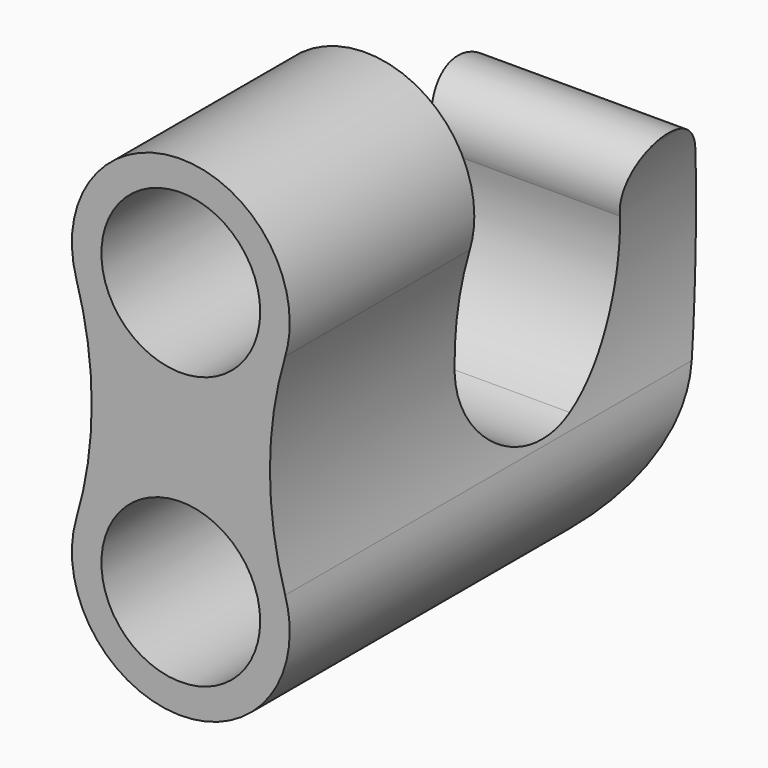
from build123d import *

# Parameters (mm, degrees)
F0_R     = 10.922
F1_DEPTH = 25.4
F2_DEPTH = 6.35
F4_DEPTH = 25.4
F5_DEPTH = 76.2
F6_DEPTH = 25.4
F7_D     = 5.4102
F8_R     = 12.7


with BuildPart() as f1:
    # F0 (on Front) → F1 (new body)
    with BuildSketch(Plane.XZ):
        with BuildLine():
            ThreePointArc((14.3656110791, 14.4652509653), (0, 3.7465), (-14.3656110791, 14.4652509653))
            ThreePointArc((-14.3656110791, 14.4652509653), (-12.2625977878, 0), (-14.3656110791, -14.4652509653))
            ThreePointArc((-14.3656110791, -14.4652509653), (0, -3.7465), (14.3656110791, -14.4652509653))
            ThreePointArc((14.3656110791, -14.4652509653), (12.2625977878, 0), (14.3656110791, 14.4652509653))
        make_face()
        with BuildLine():
            ThreePointArc((14.3656110791, 14.4652509653), (14.8300917669, 16.5764447631), (14.986, 18.7325))
            ThreePointArc((14.986, 18.7325), (-2.1560552369, 33.5625917669), (-14.3656110791, 14.4652509653))
            ThreePointArc((-14.3656110791, 14.4652509653), (0, 3.7465), (14.3656110791, 14.4652509653))
        make_face()
        with Locations((0, 18.7325)):
            Circle(F0_R, mode=Mode.SUBTRACT)
        with BuildLine():
            ThreePointArc((14.3656110791, -14.4652509653), (0, -3.7465), (-14.3656110791, -14.4652509653))
            ThreePointArc((-14.3656110791, -14.4652509653), (-2.1560552369, -33.5625917669), (14.986, -18.7325))
            ThreePointArc((14.986, -18.7325), (14.8300917669, -16.5764447631), (14.3656110791, -14.4652509653))
        make_face()
        with Locations((0, -18.7325)):
            Circle(F0_R, mode=Mode.SUBTRACT)
    extrude(amount=F1_DEPTH)

    # F0 (on Front) → F2 (join)
    with BuildSketch(Plane.XZ):
        with BuildLine():
            ThreePointArc((14.3656110791, 14.4652509653), (14.8300917669, 16.5764447631), (14.986, 18.7325))
            ThreePointArc((14.986, 18.7325), (-2.1560552369, 33.5625917669), (-14.3656110791, 14.4652509653))
            ThreePointArc((-14.3656110791, 14.4652509653), (0, 3.7465), (14.3656110791, 14.4652509653))
        make_face()
        with Locations((0, 18.7325)):
            Circle(F0_R, mode=Mode.SUBTRACT)
        with BuildLine():
            ThreePointArc((14.3656110791, 14.4652509653), (0, 3.7465), (-14.3656110791, 14.4652509653))
            ThreePointArc((-14.3656110791, 14.4652509653), (-12.2625977878, 0), (-14.3656110791, -14.4652509653))
            ThreePointArc((-14.3656110791, -14.4652509653), (0, -3.7465), (14.3656110791, -14.4652509653))
            ThreePointArc((14.3656110791, -14.4652509653), (12.2625977878, 0), (14.3656110791, 14.4652509653))
        make_face()
        with BuildLine():
            ThreePointArc((14.3656110791, -14.4652509653), (0, -3.7465), (-14.3656110791, -14.4652509653))
            ThreePointArc((-14.3656110791, -14.4652509653), (-2.1560552369, -33.5625917669), (14.986, -18.7325))
            ThreePointArc((14.986, -18.7325), (14.8300917669, -16.5764447631), (14.3656110791, -14.4652509653))
        make_face()
        with Locations((0, -18.7325)):
            Circle(F0_R, mode=Mode.SUBTRACT)
        with Locations((0, 18.7325)):
            Circle(F0_R)
        with Locations((0, -18.7325)):
            Circle(F0_R)
    extrude(amount=-F2_DEPTH)

    # F3 (on Right) → F4 (join, symmetric)
    with BuildSketch(Plane.YZ):
        with BuildLine():
            Line((0, 0), (6.35, -33.6685143411))
            ThreePointArc((6.35, -33.6685143411), (38.7816728167, -23.0090487153), (46.444249479, 10.2583907415))
            ThreePointArc((46.444249479, 10.2583907415), (38.5562501556, 14.5507638234), (34.2638770738, 6.6627644999))
            ThreePointArc((34.2638770738, 6.6627644999), (20.4633207868, -13.8005562869), (0, 0))
        make_face()
    extrude(amount=F4_DEPTH, both=True)

    # F0 (on Front) → F5 (intersect)
    with BuildSketch(Plane.XZ):
        with BuildLine():
            ThreePointArc((14.3656110791, 14.4652509653), (14.8300917669, 16.5764447631), (14.986, 18.7325))
            ThreePointArc((14.986, 18.7325), (-2.1560552369, 33.5625917669), (-14.3656110791, 14.4652509653))
            ThreePointArc((-14.3656110791, 14.4652509653), (0, 3.7465), (14.3656110791, 14.4652509653))
        make_face()
        with Locations((0, 18.7325)):
            Circle(F0_R, mode=Mode.SUBTRACT)
        with BuildLine():
            ThreePointArc((14.3656110791, 14.4652509653), (0, 3.7465), (-14.3656110791, 14.4652509653))
            ThreePointArc((-14.3656110791, 14.4652509653), (-12.2625977878, 0), (-14.3656110791, -14.4652509653))
            ThreePointArc((-14.3656110791, -14.4652509653), (0, -3.7465), (14.3656110791, -14.4652509653))
            ThreePointArc((14.3656110791, -14.4652509653), (12.2625977878, 0), (14.3656110791, 14.4652509653))
        make_face()
        with BuildLine():
            ThreePointArc((14.3656110791, -14.4652509653), (0, -3.7465), (-14.3656110791, -14.4652509653))
            ThreePointArc((-14.3656110791, -14.4652509653), (-2.1560552369, -33.5625917669), (14.986, -18.7325))
            ThreePointArc((14.986, -18.7325), (14.8300917669, -16.5764447631), (14.3656110791, -14.4652509653))
        make_face()
        with Locations((0, -18.7325)):
            Circle(F0_R, mode=Mode.SUBTRACT)
        with Locations((0, -18.7325)):
            Circle(F0_R)
        with Locations((0, 18.7325)):
            Circle(F0_R)
    extrude(amount=-F5_DEPTH, mode=Mode.INTERSECT)

    # F0 (on Front) → F6 (join)
    with BuildSketch(Plane.XZ):
        with BuildLine():
            ThreePointArc((14.3656110791, 14.4652509653), (14.8300917669, 16.5764447631), (14.986, 18.7325))
            ThreePointArc((14.986, 18.7325), (-2.1560552369, 33.5625917669), (-14.3656110791, 14.4652509653))
            ThreePointArc((-14.3656110791, 14.4652509653), (0, 3.7465), (14.3656110791, 14.4652509653))
        make_face()
        with Locations((0, 18.7325)):
            Circle(F0_R, mode=Mode.SUBTRACT)
        with BuildLine():
            ThreePointArc((14.3656110791, 14.4652509653), (0, 3.7465), (-14.3656110791, 14.4652509653))
            ThreePointArc((-14.3656110791, 14.4652509653), (-12.2625977878, 0), (-14.3656110791, -14.4652509653))
            ThreePointArc((-14.3656110791, -14.4652509653), (0, -3.7465), (14.3656110791, -14.4652509653))
            ThreePointArc((14.3656110791, -14.4652509653), (12.2625977878, 0), (14.3656110791, 14.4652509653))
        make_face()
        with BuildLine():
            ThreePointArc((14.3656110791, -14.4652509653), (0, -3.7465), (-14.3656110791, -14.4652509653))
            ThreePointArc((-14.3656110791, -14.4652509653), (-2.1560552369, -33.5625917669), (14.986, -18.7325))
            ThreePointArc((14.986, -18.7325), (14.8300917669, -16.5764447631), (14.3656110791, -14.4652509653))
        make_face()
        with Locations((0, -18.7325)):
            Circle(F0_R, mode=Mode.SUBTRACT)
    extrude(amount=F6_DEPTH)

    # F7 (through all)
    with Locations(Plane.XZ):
        with Locations((0, -18.7325)):
            Hole(F7_D / 2)

    # F8
    f8_edges = [f1.edges().sort_by_distance(p)[0] for p in [
        (0, 6.35, -10.392729),
    ]]
    fillet(f8_edges, radius=F8_R)


solid = f1.part
